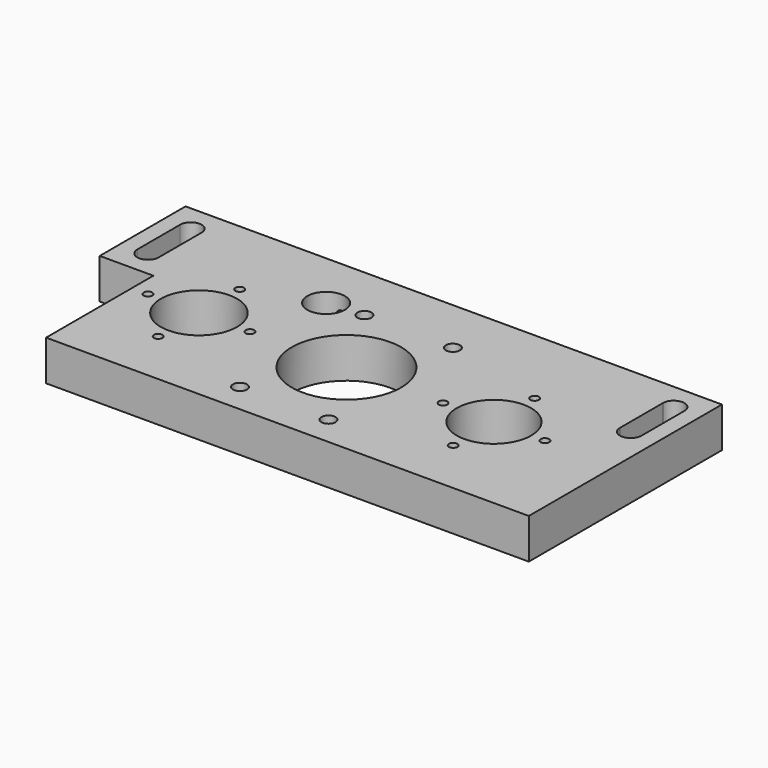
from build123d import *

# Parameters (mm, degrees)
F0_R     = 14.2206342646
F0_R_2   = 20.3905424102
F0_R_3   = 13.8730620626
F0_R_4   = 7
F1_DEPTH = 15
F3_D     = 3.2
F5_D     = 5.25
F7_D     = 4.4
F7_DEPTH = 15
F7_TIP   = 1.3218933619


with BuildPart() as f1:
    # F0 (on Top) → F1 (new body)
    with BuildSketch(Plane.XY):
        Polygon((-80, -45), (100, -45), (100, 45), (-100, 45), (-100, 5), (-80, 5), align=None)
        with Locations((-55, -5)):
            Circle(F0_R, mode=Mode.SUBTRACT)
        with Locations((0, -5)):
            Circle(F0_R_2, mode=Mode.SUBTRACT)
        with Locations((55, -5)):
            Circle(F0_R_3, mode=Mode.SUBTRACT)
        with BuildLine():
            ThreePointArc((-86.0003137523, 35.0500990994), (-86, 35), (-86.0003137523, 34.9499009006))
            Line((-86.0003137523, 34.9499009006), (-86.0003137523, 15.0500990994))
            ThreePointArc((-86.0003137523, 15.0500990994), (-86, 15), (-86.0003137523, 14.9499009006))
            ThreePointArc((-86.0003137523, 14.9499009006), (-90.095653532, 11.0011438633), (-93.9975072002, 15.1411955542))
            Line((-93.9975072002, 15.1411955542), (-93.9999999685, 34.9994978889))
            ThreePointArc((-93.9999999685, 34.9994978889), (-90.0253010915, 38.999919981), (-86.0003137523, 35.0500990994))
        make_face(mode=Mode.SUBTRACT)
        with Locations((-30, 23)):
            Circle(F0_R_4, mode=Mode.SUBTRACT)
        with BuildLine():
            ThreePointArc((86.0107341117, 35.2928441091), (90.1465203854, 38.9973155713), (94, 35))
            Line((94, 35), (94, 15))
            ThreePointArc((94, 15), (90.1465203854, 11.0026844287), (86.0107341117, 14.7071558909))
            ThreePointArc((86.0107341117, 14.7071558909), (86, 15), (86.0107341117, 15.2928441091))
            Line((86.0107341117, 15.2928441091), (86.0107341117, 34.7071558909))
            ThreePointArc((86.0107341117, 34.7071558909), (86, 35), (86.0107341117, 35.2928441091))
        make_face(mode=Mode.SUBTRACT)
    extrude(amount=F1_DEPTH)

    # F3 (through all)
    with Locations(Plane.XY.offset(15)):
        with Locations((-74, -5), (-55, 14), (-36, -5), (-55, -24), (36, -5), (55, 14), (74, -5), (55, -24)):
            Hole(F3_D / 2)

    # F5 (through all)
    with Locations(Plane.XY.offset(15)):
        with Locations((-16.5, 24), (16.5, 24), (16.5, -34), (-16.5, -34)):
            Hole(F5_D / 2)

    # F7
    with Locations(Plane(origin=(0, 45, 0), x_dir=(-1, 0, 0), z_dir=(0, 1, 0))):
        with Locations((30, 7.5)):
            Hole(F7_D / 2, depth=F7_DEPTH)
            with Locations((0, 0, -(F7_DEPTH + F7_TIP / 2))):  # 118° drill point
                Cone(0, F7_D / 2, F7_TIP, mode=Mode.SUBTRACT)


solid = f1.part
